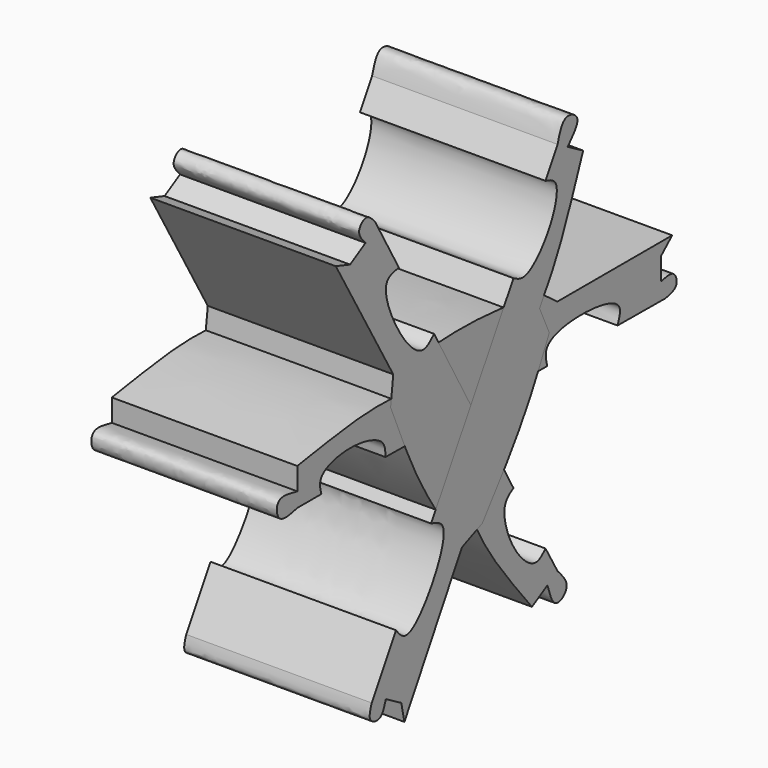
from build123d import *

# Parameters (mm, degrees)
F1_DEPTH = 40
F3_W     = 24.8246081173
F3_H     = 6.6053653136
F5_DEPTH = 12.5
F6_COUNT = 3


with BuildPart() as f1:
    # F0 (on Right) → F1 (new body)
    with BuildSketch(Plane.YZ):
        with BuildLine():
            add(Edge.make_bspline(
                [(18.4985511005, 14.2875006422), (20.1027623067, 13.0843423928), (21.706973513, 11.8811841433), (23.3111847192, 10.6780258939)],
                knots=[0, 0, 0, 0, 6.015791744, 6.015791744, 6.015791744, 6.015791744], degree=3))
            add(Edge.make_bspline(
                [(18.4985511005, 14.2875006422), (12.1984889344, 15.1036716068), (0.1447427274, 16.6652304309), (-10.4387696939, 15.8701695614), (-15.4906585813, 15.4906585813)],
                knots=[0, 0, 0, 0, 0.5226642455, 1, 1, 1, 1], degree=3))
            add(Edge.make_bspline(
                [(-15.4906585813, 15.4906585813), (-16.6938162098, 13.7861846015), (-17.8969738384, 12.0817106217), (-19.100131467, 10.3772366419)],
                knots=[0, 0, 0, 0, 6.2590237611, 6.2590237611, 6.2590237611, 6.2590237611], degree=3))
            add(Edge.make_bspline(
                [(-19.100131467, 10.3772366419), (-22.0632040313, 10.4999973946), (-29.1015443989, 10.791597395), (-40.2928740057, 9.0052394552), (-46.772763133, 7.9709207639)],
                knots=[0, 0, 0, 0, 0.4209902348, 1, 1, 1, 1], degree=3))
            add(Edge.make_bspline(
                [(-46.772763133, 7.9709207639), (-46.772763133, 6.3667103338), (-46.772763133, 4.7624999036), (-46.772763133, 3.1582894735)],
                knots=[0, 0, 0, 0, 4.8126312904, 4.8126312904, 4.8126312904, 4.8126312904], degree=3))
            add(Edge.make_bspline(
                [(-46.772763133, 3.1582894735), (-48.9155573499, 3.6396198585), (-52.7461902774, 4.5000851365), (-52.1727431918, -1.2915247975), (-48.6931498012, -0.4593029929), (-46.772763133, 0)],
                knots=[0, 0, 0, 0, 0.3626047806, 0.6482217477, 1, 1, 1, 1], degree=3))
            add(Edge.make_bspline(
                [(-46.772763133, 0), (-44.6128000906, 0), (-42.4528370482, 0), (-40.2928740057, 0)],
                knots=[0, 0, 0, 0, 6.4798891273, 6.4798891273, 6.4798891273, 6.4798891273], degree=3))
            add(Edge.make_bspline(
                [(-40.2928740057, 0), (-40.5892948735, 1.1231179248), (-41.3497530466, 4.004440727), (-32.8441145988, 6.4967978322), (-23.0666201592, 4.1387341822), (-23.0256482899, 1.1227696583), (-23.0103954673, 0)],
                knots=[0, 0, 0, 0, 0.1885061035, 0.4836063268, 0.8077592945, 1, 1, 1, 1], degree=3))
            add(Edge.make_bspline(
                [(-23.0103954673, 0), (-8.4722371151, -0.1531009976), (6.0659212371, -0.3062019953), (20.6040795892, -0.4593029929)],
                knots=[0, 0, 0, 0, 43.6168934439, 43.6168934439, 43.6168934439, 43.6168934439], degree=3))
            add(Edge.make_bspline(
                [(20.6040795892, -0.4593029929), (20.2646660217, 0.8531967516), (19.3884520662, 4.2414837934), (29.2534641537, 6.3385857684), (41.450789508, 4.4278424284), (40.063097362, 0.8527556713), (39.5538136363, -0.4593029929)],
                knots=[0, 0, 0, 0, 0.1882869828, 0.4860727376, 0.8113884324, 1, 1, 1, 1], degree=3))
            add(Edge.make_bspline(
                [(52.4769122971, -0.5505367416), (48.1692127435, -0.520125492), (43.8615131899, -0.4897142425), (39.5538136363, -0.4593029929)],
                knots=[0, 0, 0, 0, 12.9234207001, 12.9234207001, 12.9234207001, 12.9234207001], degree=3))
            add(Edge.make_bspline(
                [(51.2846037745, 3.1582894735), (52.6009178056, 3.4603180981), (55.0385631992, 4.019636519), (56.0424848204, 0.1535164835), (53.7109910162, -0.3068571932), (52.4769122971, -0.5505367416)],
                knots=[0, 0, 0, 0, 0.3558934088, 0.6590691189, 1, 1, 1, 1], degree=3))
            add(Edge.make_bspline(
                [(51.2846037745, 7.9709207639), (51.2846037745, 6.3667103338), (51.2846037745, 4.7624999036), (51.2846037745, 3.1582894735)],
                knots=[0, 0, 0, 0, 4.8126312904, 4.8126312904, 4.8126312904, 4.8126312904], degree=3))
            add(Edge.make_bspline(
                [(54.2925000191, 10.6780258939), (53.2898679376, 9.7756575172), (52.2872358561, 8.8732891406), (51.2846037745, 7.9709207639)],
                knots=[0, 0, 0, 0, 4.0467095278, 4.0467095278, 4.0467095278, 4.0467095278], degree=3))
            add(Edge.make_bspline(
                [(23.3111847192, 10.6780258939), (33.6382898192, 10.6780258939), (43.9653949191, 10.6780258939), (54.2925000191, 10.6780258939)],
                knots=[0, 0, 0, 0, 30.9813152999, 30.9813152999, 30.9813152999, 30.9813152999], degree=3))
        make_face()
    extrude(amount=F1_DEPTH)


with BuildPart() as f5:
    # F3 (on offset) → F5 (new body, symmetric)
    with BuildSketch(Plane.YZ.offset(20)):
        with Locations((30.5751096457, 3.3026826568)):
            Rectangle(F3_W, F3_H)
    extrude(amount=F5_DEPTH, both=True)


with BuildPart() as f6_1:
    # F6: instance of F1
    add(f1.part.rotate(Axis((17.1436392702, 0, 0), (1, 0, 0)), 1 * 360 / F6_COUNT))


with BuildPart() as f6_2:
    # F6: instance of F1
    add(f1.part.rotate(Axis((17.1436392702, 0, 0), (1, 0, 0)), 2 * 360 / F6_COUNT))


solid = Compound([f1.part, f5.part, f6_1.part, f6_2.part])
